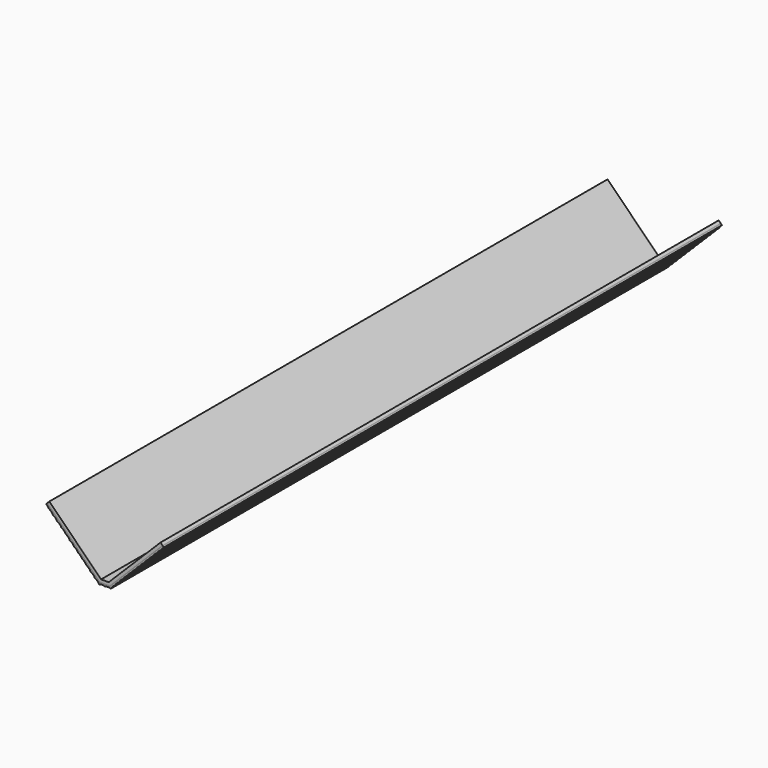
from build123d import *

# Parameters (mm, degrees)
F1_DEPTH = 749.3
F2_DEPTH = 749.3
F3_DEPTH = 749.3
F4_R     = 4.7625
F5_DEPTH = 10.8341


with BuildPart() as f1:
    # F0 (on Front) → F1 (new body, symmetric)
    with BuildSketch(Plane.XZ):
        Polygon((8.2127830575, 0), (0, 0), (-8.2127830575, 0), (-119.3411055301, 111.1283224727), (-123.5887666754, 106.8806613274), (-10.701005348, -6.0071), (0, -6.0071), (10.701005348, -6.0071), (123.5887666754, 106.8806613274), (119.3411055301, 111.1283224727), align=None)
    extrude(amount=F1_DEPTH, both=True)


with BuildPart() as f2:
    # F0 (on Front) → F2 (new body, symmetric)
    with BuildSketch(Plane.XZ):
        Polygon((124.3071871651, 106.1622408377), (123.5887666754, 106.8806613274), (10.701005348, -6.0071), (0, -6.0071), (-10.701005348, -6.0071), (-123.5887666754, 106.8806613274), (-124.3071871651, 106.1622408377), (-11.1218463274, -7.0231), (0, -7.0231), (11.1218463274, -7.0231), align=None)
    extrude(amount=F2_DEPTH, both=True)


with BuildPart() as f3:
    # F0 (on Front) → F3 (new body, symmetric)
    with BuildSketch(Plane.XZ):
        with BuildLine():
            Line((126.3344906062, 104.1349373966), (124.3071871651, 106.1622408377))
            Line((124.3071871651, 106.1622408377), (11.1218463274, -7.0231))
            Line((11.1218463274, -7.0231), (0, -7.0231))
            Line((0, -7.0231), (-11.1218463274, -7.0231))
            Line((-11.1218463274, -7.0231), (-124.3071871651, 106.1622408377))
            Line((-124.3071871651, 106.1622408377), (-126.3344906062, 104.1349373966))
            ThreePointArc((-126.3344906062, 104.1349373966), (-122.9158165988, 100.9260301236), (-120.4630734528, 96.9299734528))
            ThreePointArc((-120.4630734528, 96.9299734528), (-115.136915248, 93.2758755366), (-111.4828173318, 87.9497173318))
            ThreePointArc((-111.4828173318, 87.9497173318), (-106.1566591269, 84.2956194155), (-102.5025612107, 78.9694612107))
            ThreePointArc((-102.5025612107, 78.9694612107), (-97.1764030059, 75.3153632944), (-93.5223050896, 69.9892050896))
            ThreePointArc((-93.5223050896, 69.9892050896), (-88.1961468848, 66.3351071734), (-84.5420489686, 61.0089489686))
            ThreePointArc((-84.5420489686, 61.0089489686), (-79.2158907637, 57.3548510523), (-75.5617928475, 52.0286928475))
            ThreePointArc((-75.5617928475, 52.0286928475), (-70.2356346427, 48.3745949312), (-66.5815367264, 43.0484367264))
            ThreePointArc((-66.5815367264, 43.0484367264), (-61.2553785216, 39.3943388102), (-57.6012806053, 34.0681806053))
            ThreePointArc((-57.6012806053, 34.0681806053), (-52.2751224005, 30.4140826891), (-48.6210244843, 25.0879244843))
            ThreePointArc((-48.6210244843, 25.0879244843), (-43.2948662795, 21.433826568), (-39.6407683632, 16.1076683632))
            ThreePointArc((-39.6407683632, 16.1076683632), (-34.3146101584, 12.453570447), (-30.6605122421, 7.1274122421))
            ThreePointArc((-30.6605122421, 7.1274122421), (-25.3343540373, 3.4733143259), (-21.6802561211, -1.8528438789))
            ThreePointArc((-21.6802561211, -1.8528438789), (-16.3540979162, -5.5069417952), (-12.7, -10.8331))
            ThreePointArc((-12.7, -10.8331), (-6.35, -9.6507748314), (0, -10.8331))
            ThreePointArc((0, -10.8331), (6.35, -9.6507748314), (12.7, -10.8331))
            ThreePointArc((12.7, -10.8331), (16.3540979162, -5.5069417952), (21.6802561211, -1.8528438789))
            ThreePointArc((21.6802561211, -1.8528438789), (25.3343540373, 3.4733143259), (30.6605122421, 7.1274122421))
            ThreePointArc((30.6605122421, 7.1274122421), (34.3146101584, 12.453570447), (39.6407683632, 16.1076683632))
            ThreePointArc((39.6407683632, 16.1076683632), (43.2948662795, 21.433826568), (48.6210244843, 25.0879244843))
            ThreePointArc((48.6210244843, 25.0879244843), (52.2751224005, 30.4140826891), (57.6012806053, 34.0681806053))
            ThreePointArc((57.6012806053, 34.0681806053), (61.2553785216, 39.3943388102), (66.5815367264, 43.0484367264))
            ThreePointArc((66.5815367264, 43.0484367264), (70.2356346427, 48.3745949312), (75.5617928475, 52.0286928475))
            ThreePointArc((75.5617928475, 52.0286928475), (79.2158907637, 57.3548510523), (84.5420489686, 61.0089489686))
            ThreePointArc((84.5420489686, 61.0089489686), (88.1961468848, 66.3351071734), (93.5223050896, 69.9892050896))
            ThreePointArc((93.5223050896, 69.9892050896), (97.1764030059, 75.3153632944), (102.5025612107, 78.9694612107))
            ThreePointArc((102.5025612107, 78.9694612107), (106.1566591269, 84.2956194155), (111.4828173318, 87.9497173318))
            ThreePointArc((111.4828173318, 87.9497173318), (115.136915248, 93.2758755366), (120.4630734528, 96.9299734528))
            ThreePointArc((120.4630734528, 96.9299734528), (122.9158165988, 100.9260301236), (126.3344906062, 104.1349373966))
        make_face()
    extrude(amount=F3_DEPTH, both=True)


with BuildPart() as f5_tool:
    # F4 (on Top) → F5 (new body, through all)
    with BuildSketch(Plane.XY):
        with Locations((0, 584.2)):
            Circle(F4_R)
        with Locations((0, -584.2)):
            Circle(F4_R)
    extrude(amount=-F5_DEPTH)


with BuildPart() as f1_1:
    add(f1.part)

    # F5: cut by f5_tool
    add(f5_tool.part, mode=Mode.SUBTRACT)


with BuildPart() as f2_1:
    add(f2.part)

    # F5: cut by f5_tool
    add(f5_tool.part, mode=Mode.SUBTRACT)


with BuildPart() as f3_1:
    add(f3.part)

    # F5: cut by f5_tool
    add(f5_tool.part, mode=Mode.SUBTRACT)


solid = Compound([f1_1.part, f2_1.part, f3_1.part])
